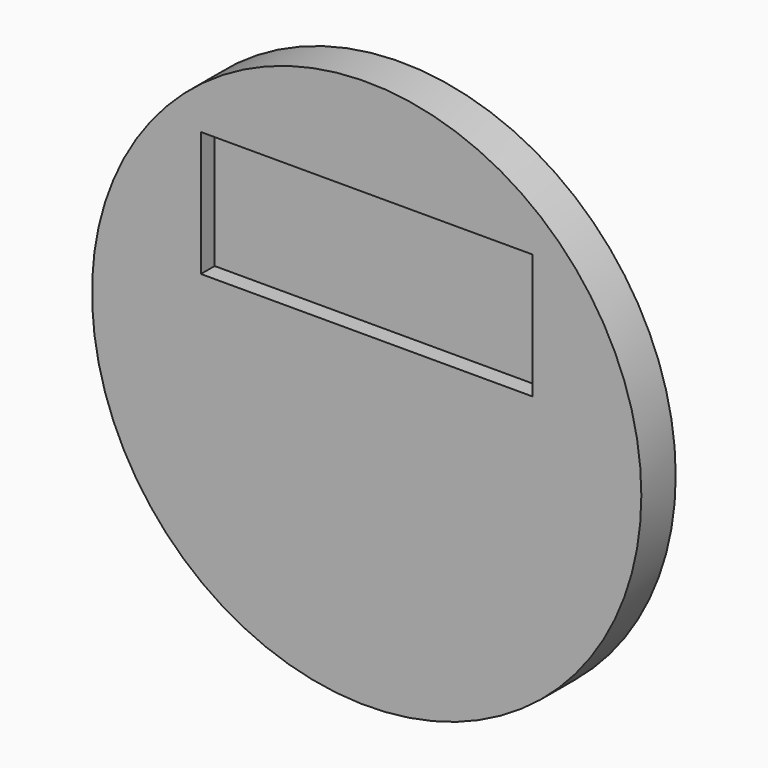
from build123d import *

# Parameters (mm, degrees)
F0_R     = 40.591751
F0_W     = 49.004946
F0_H     = 18.471095
F1_DEPTH = 6.35
F2_DEPTH = 3.81


with BuildPart() as f1:
    # F0 (on Front) → F1 (new body)
    with BuildSketch(Plane.XZ):
        Circle(F0_R)
        with Locations((0, 16.86901)):
            Rectangle(F0_W, F0_H, mode=Mode.SUBTRACT)
    extrude(amount=F1_DEPTH)

    # F0 (on Front) → F2 (join)
    with BuildSketch(Plane.XZ):
        with Locations((0, 16.86901)):
            Rectangle(F0_W, F0_H)
    extrude(amount=F2_DEPTH)


solid = f1.part
